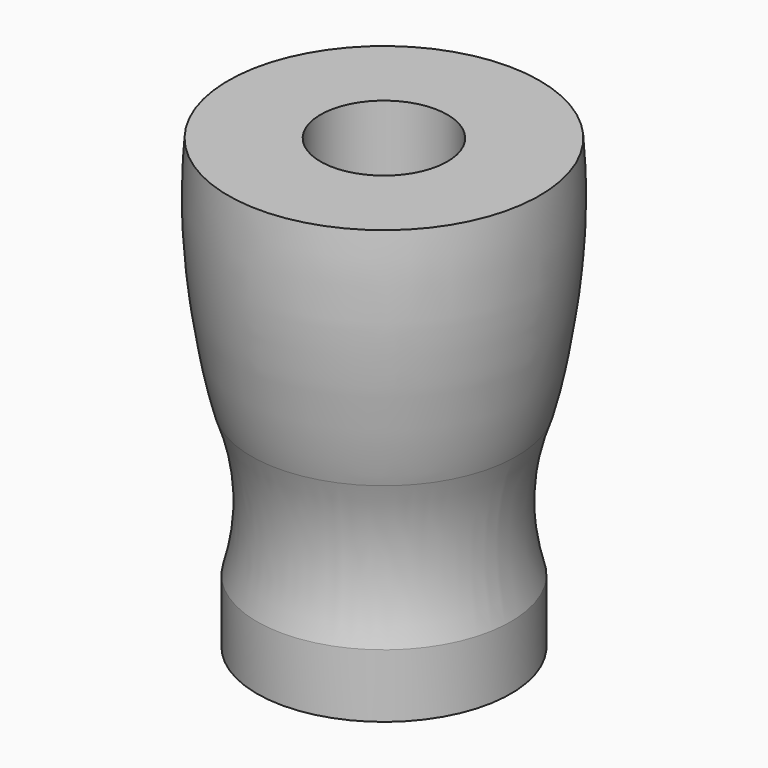
from build123d import *


with BuildPart() as f1:
    # F0 (on Right) → F1 (revolve)
    with BuildSketch(Plane.YZ):
        with BuildLine():
            Line((3, 0), (6, 0))
            Line((6, 0), (6, 3))
            ThreePointArc((6, 3), (5.560850896, 6.505422346), (6.2712361105, 9.9660856649))
            add(Edge.make_bspline(
                [(6.2712361105, 9.9660856649), (6.4842922019, 10.6723030149), (7.1799682249, 13.6967875008), (7.6213177648, 18.4007037845), (7.3603028432, 21.1688943701)],
                knots=[0, 0, 0, 0, 0.3998814879, 1, 1, 1, 1], degree=3))
            Line((7.3603028432, 21.1688943701), (3, 21.1688943701))
            Line((3, 21.1688943701), (3, 0))
        make_face()
    revolve(axis=Axis((0, 0, 10.8495568857), (0, 0, -1)))


solid = f1.part
